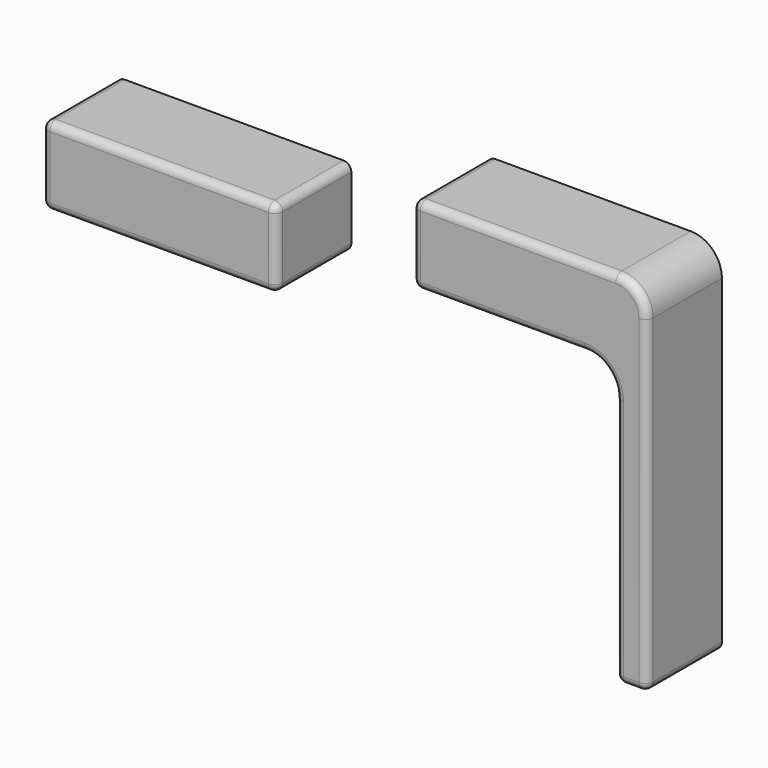
from build123d import *

# Parameters (mm, degrees)
F0_W     = 15
F0_H     = 5
F1_DEPTH = 6
F2_R     = 2
F3_R     = 0.5


with BuildPart() as f1:
    # F0 (on Front) → F1 (new body)
    with BuildSketch(Plane.XZ):
        Polygon((0, 23), (0, 18), (13, 18), (13, 0), (15, 0), (15, 23), align=None)
        with Locations((-16.222784, 17.260809)):
            Rectangle(F0_W, F0_H)
    extrude(amount=F1_DEPTH)

    # F2
    f2_edges = [f1.edges().sort_by_distance(p)[0] for p in [
        (15, -3, 23),
        (13, -3, 18),
    ]]
    fillet(f2_edges, radius=F2_R)

    # F3
    f3_edges = [f1.edges().sort_by_distance(p)[0] for p in [
        (0, -3, 23),
        (0, -3, 18),
        (13, -3, 0),
        (15, -3, 0),
        (13, -6, 8),
        (15, -6, 10.5),
        (-16.222784, -6, 14.760809),
        (-23.722784, -6, 17.260809),
        (-23.722784, -3, 14.760809),
        (-23.722784, -3, 19.760809),
        (-8.722784, -3, 14.760809),
        (-8.722784, -6, 17.260809),
        (-16.222784, -6, 19.760809),
        (-8.722784, -3, 19.760809),
        (0, -6, 20.5),
        (14, -6, 0),
    ]]
    fillet(f3_edges, radius=F3_R)


solid = f1.part
